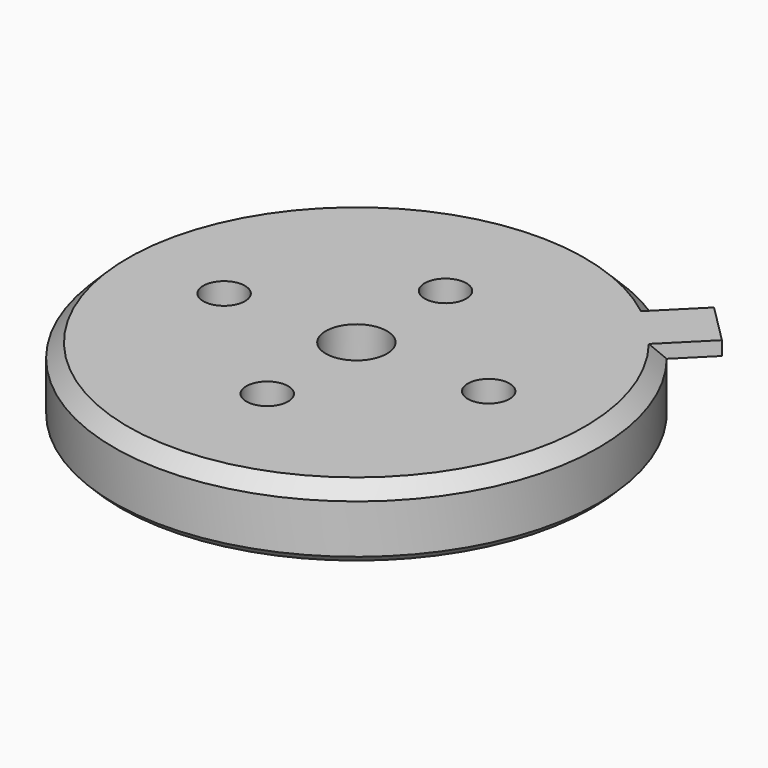
from build123d import *

# Parameters (mm, degrees)
F0_R     = 17.4
F0_R_2   = 1.5
F0_R_3   = 2.2
F1_DEPTH = 5
F2_SIZE  = 1
F3_SIZE  = 0.5
F5_DEPTH = 1


with BuildPart() as f1:
    # F0 (on Top) → F1 (new body)
    with BuildSketch(Plane.XY):
        Circle(F0_R)
        with Locations((0, -8)):
            Circle(F0_R_2, mode=Mode.SUBTRACT)
        with Locations((-9.5, 0)):
            Circle(F0_R_2, mode=Mode.SUBTRACT)
        Circle(F0_R_3, mode=Mode.SUBTRACT)
        with Locations((0, 8)):
            Circle(F0_R_2, mode=Mode.SUBTRACT)
        with Locations((9.5, 0)):
            Circle(F0_R_2, mode=Mode.SUBTRACT)
    extrude(amount=F1_DEPTH)

    # F2
    f2_edges = [f1.edges().sort_by_distance(p)[0] for p in [
        (-17.4, 0, 5),
    ]]
    chamfer(f2_edges, length=F2_SIZE)

    # F3
    f3_edges = [f1.edges().sort_by_distance(p)[0] for p in [
        (-17.4, 0, 0),
    ]]
    chamfer(f3_edges, length=F3_SIZE)

    # F4 (on face) → F5 (join)
    with BuildSketch(Plane.XY.offset(5)):
        Polygon((13.010765, 15.839192), (9.828784, 12.657211), (12.657211, 9.828784), (15.839192, 13.010765), align=None)
    extrude(amount=-F5_DEPTH)


solid = f1.part
